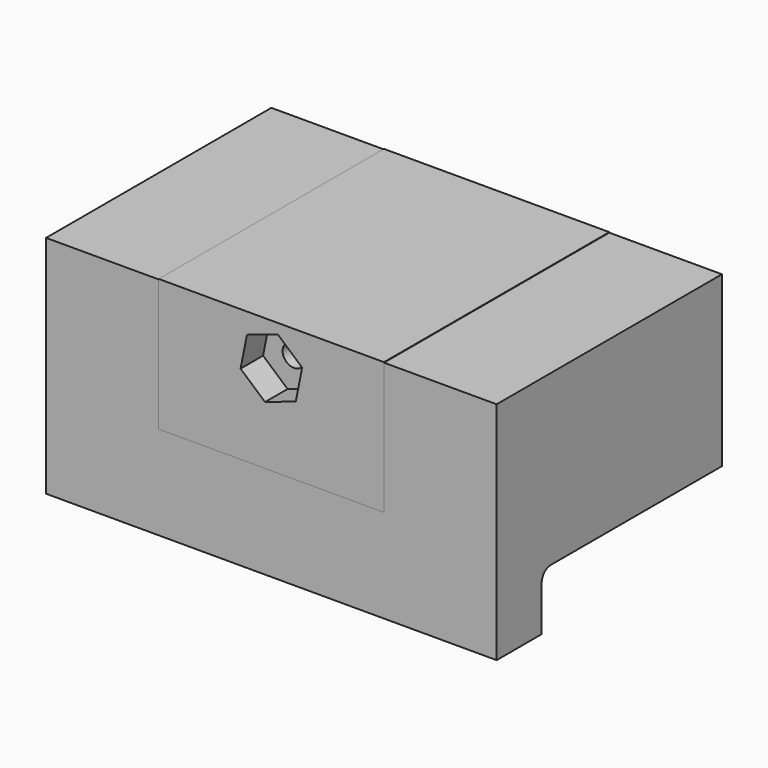
from build123d import *

# Parameters (mm, degrees)
F1_DEPTH  = 25.4
F3_DEPTH  = 12.7
F5_D      = 3.175
F7_R      = 1.27
F8_DEPTH  = 12.7
F10_D     = 2.54
F12_DEPTH = 3.175


with BuildPart() as f1:
    # F0 (on Right) → F1 (new body, symmetric)
    with BuildSketch(Plane.YZ):
        Polygon((-5.114724, 0), (-5.114724, -25.4), (1.235276, -25.4), (1.235276, -19.05), (26.635276, -19.05), (26.635276, 0), align=None)
    extrude(amount=F1_DEPTH, both=True)

    # F2 (on Right) → F3 (cut, symmetric)
    with BuildSketch(Plane.YZ):
        Polygon((26.635276, 0), (-5.114724, 0), (-5.114724, -14.857387), (26.635276, -6.35), align=None)
    extrude(amount=F3_DEPTH, both=True, mode=Mode.SUBTRACT)

    # F5 (through all)
    with Locations(Plane(origin=(0, 26.635276, 0), x_dir=(-1, 0, 0), z_dir=(0, 1, 0))):
        with Locations((0, -6.35)):
            Hole(F5_D / 2)

    # F7
    f7_edges = [f1.edges().sort_by_distance(p)[0] for p in [
        (0, 1.235276, -19.05),
    ]]
    fillet(f7_edges, radius=F7_R)


with BuildPart() as f8:
    # F6 (on Right) → F8 (new body, symmetric)
    with BuildSketch(Plane.YZ):
        Polygon((-5.114724, 0.052499), (-5.114724, -14.857387), (26.635276, -6.35), (26.635276, 0.052499), align=None)
    extrude(amount=F8_DEPTH, both=True)

    # F10 (through all)
    with Locations(Plane.XZ.offset(5.114724)):
        with Locations((0, -4.671995)):
            Hole(F10_D / 2)

    # F11 (on face) → F12 (cut)
    with BuildSketch(Plane.XZ.offset(5.114724)):
        Polygon((3.47121, -3.492362), (0.714013, -1.076022), (-2.757197, -2.255655), (-3.47121, -5.851627), (-0.714013, -8.267967), (2.757197, -7.088334), align=None)
    extrude(amount=-F12_DEPTH, mode=Mode.SUBTRACT)


solid = Compound([f1.part, f8.part])
